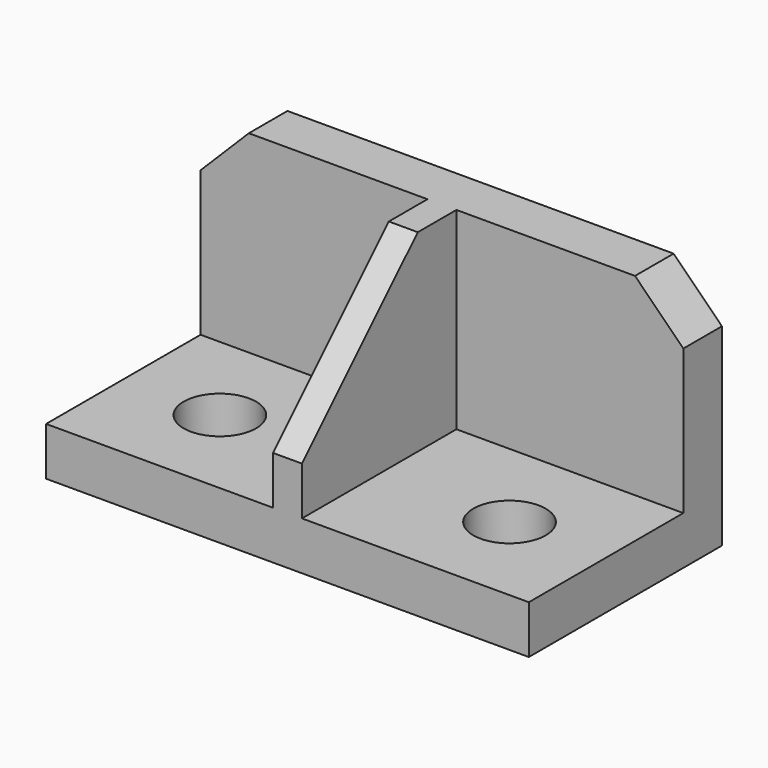
from build123d import *

# Parameters (mm, degrees)
F0_W      = 100
F0_H      = 50
F1_DEPTH  = 50
F2_W      = 47
F2_H      = 40
F3_DEPTH  = 40
F4_W      = 47
F4_H      = 40
F5_DEPTH  = 40
F6_SIZE   = 30
F7_R      = 7.5
F8_DEPTH  = 10
F9_R      = 7.5
F10_DEPTH = 10
F11_SIZE  = 10


with BuildPart() as f1:
    # F0 (on Top) → F1 (new body)
    with BuildSketch(Plane.XY):
        with Locations((50, 25)):
            Rectangle(F0_W, F0_H)
    extrude(amount=F1_DEPTH)

    # F2 (on face) → F3 (cut)
    with BuildSketch(Plane.XY.offset(50)):
        with Locations((23.5, 20)):
            Rectangle(F2_W, F2_H)
    extrude(amount=-F3_DEPTH, mode=Mode.SUBTRACT)

    # F4 (on face) → F5 (cut)
    with BuildSketch(Plane.XY.offset(50)):
        with Locations((76.5, 20)):
            Rectangle(F4_W, F4_H)
    extrude(amount=-F5_DEPTH, mode=Mode.SUBTRACT)

    # F6
    f6_edges = [f1.edges().sort_by_distance(p)[0] for p in [
        (50, 0, 50),
    ]]
    chamfer(f6_edges, length=F6_SIZE)

    # F7 (on face) → F8 (cut)
    with BuildSketch(Plane.XY.offset(10)):
        with Locations((20, 20)):
            Circle(F7_R)
    extrude(amount=-F8_DEPTH, mode=Mode.SUBTRACT)

    # F9 (on face) → F10 (cut)
    with BuildSketch(Plane.XY.offset(10)):
        with Locations((80, 20)):
            Circle(F9_R)
    extrude(amount=-F10_DEPTH, mode=Mode.SUBTRACT)

    # F11
    f11_edges = [f1.edges().sort_by_distance(p)[0] for p in [
        (0, 45, 50),
        (100, 45, 50),
    ]]
    chamfer(f11_edges, length=F11_SIZE)


solid = f1.part
